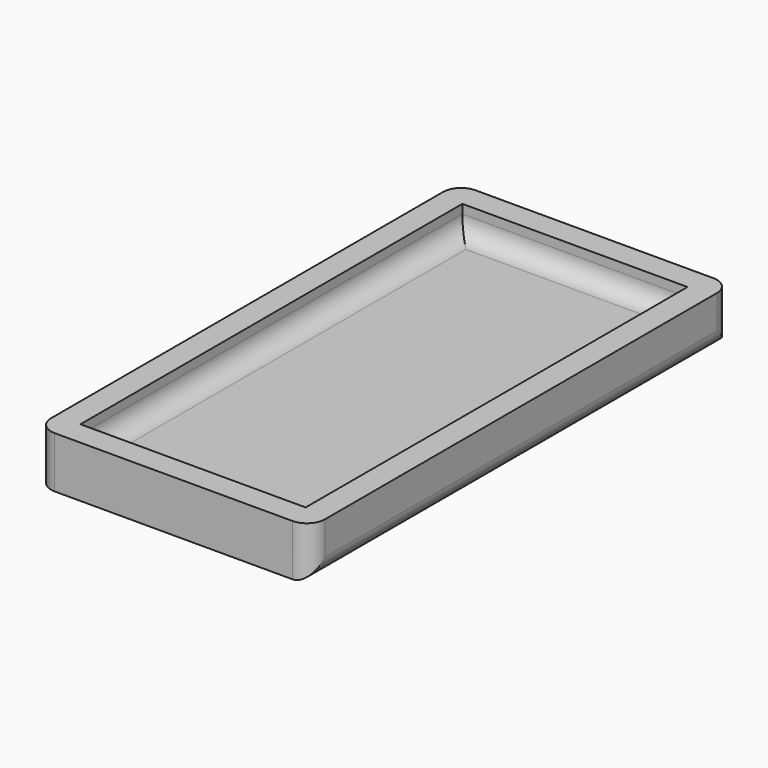
from build123d import *

# Parameters (mm, degrees)
F0_W     = 77.216
F0_H     = 148.336
F1_DEPTH = 14.478
F2_R     = 5.08
F3_T     = -6.858
F4_R     = 5.08


with BuildPart() as f1:
    # F0 (on Top) → F1 (new body)
    with BuildSketch(Plane.XY):
        Rectangle(F0_W, F0_H)
    extrude(amount=F1_DEPTH)

    # F2
    f2_edges = [f1.edges().sort_by_distance(p)[0] for p in [
        (-38.608, 74.168, 7.239),
        (38.608, 74.168, 7.239),
        (38.608, -74.168, 7.239),
        (-38.608, -74.168, 7.239),
        (38.608, 0, 0),
    ]]
    fillet(f2_edges, radius=F2_R)

    # F3
    f3_openings = [f1.faces().sort_by_distance(p)[0] for p in [
        (0, 0, 14.478),
    ]]
    offset(amount=F3_T, openings=f3_openings)

    # F4
    f4_edges = [f1.edges().sort_by_distance(p)[0] for p in [
        (0, -67.31, 6.858),
        (31.75, 0, 6.858),
        (0, 67.31, 6.858),
        (-31.75, 0, 6.858),
    ]]
    fillet(f4_edges, radius=F4_R)


solid = f1.part
